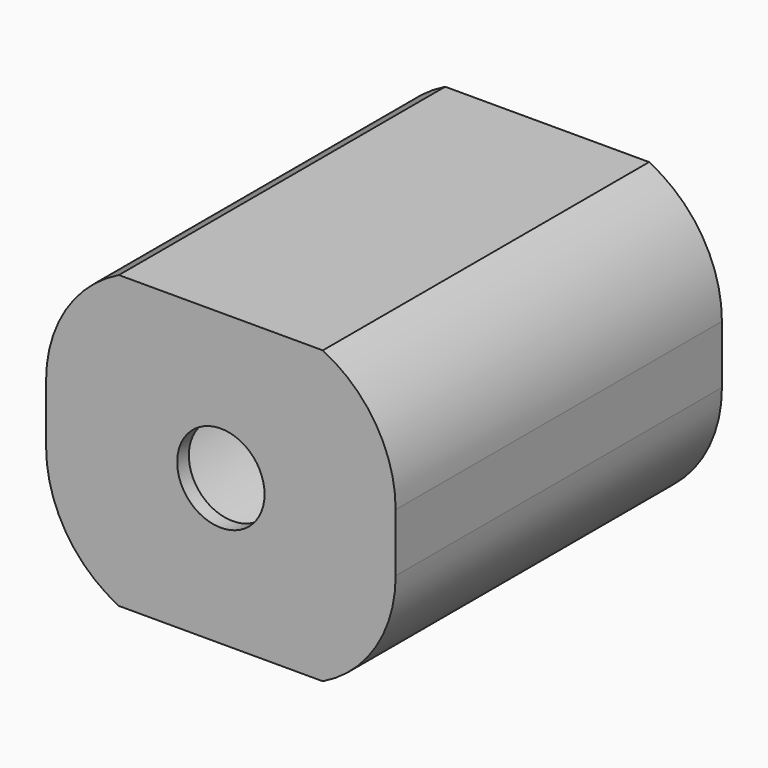
from build123d import *

# Parameters (mm, degrees)
PAD_DEPTH       = 14
POCKET_DEPTH    = 13.5
SKETCH002_R     = 1.5
POCKET001_DEPTH = 14.001


with BuildPart() as part:
    # Sketch → Pad (new body)
    with BuildSketch(Plane.XZ):
        with BuildLine():
            Line((-3.5, 5), (3.5, 5))
            ThreePointArc((6, 1), (5.323594, 3.358497), (3.5, 5))
            Line((6, 1), (6, -1))
            ThreePointArc((3.5, -5), (5.323594, -3.358497), (6, -1))
            Line((-3.5, -5), (3.5, -5))
            ThreePointArc((-6, -1), (-5.323594, -3.358496), (-3.5, -5))
            Line((-6, 1), (-6, -1))
            ThreePointArc((-3.5, 5), (-5.323594, 3.358496), (-6, 1))
        make_face()
    extrude(amount=PAD_DEPTH)

    # Sketch001 → Pocket (cut)
    with BuildSketch(Plane.XZ):
        with BuildLine():
            Line((-3, 4.5), (3, 4.5))
            ThreePointArc((5.5, 1), (4.810812, 3.15058), (3, 4.5))
            Line((5.5, 1), (5.5, -1))
            ThreePointArc((3, -4.5), (4.810812, -3.15058), (5.5, -1))
            Line((-3, -4.5), (3, -4.5))
            ThreePointArc((-5.5, -1), (-4.810812, -3.15058), (-3, -4.5))
            Line((-5.5, -1), (-5.5, 1))
            ThreePointArc((-3, 4.5), (-4.810812, 3.15058), (-5.5, 1))
        make_face()
    extrude(amount=POCKET_DEPTH, mode=Mode.SUBTRACT)

    # Sketch002 → Pocket001 (cut, through all)
    with BuildSketch(Plane.XZ):
        Circle(SKETCH002_R)
    extrude(amount=POCKET001_DEPTH, mode=Mode.SUBTRACT)


solid = part.part
